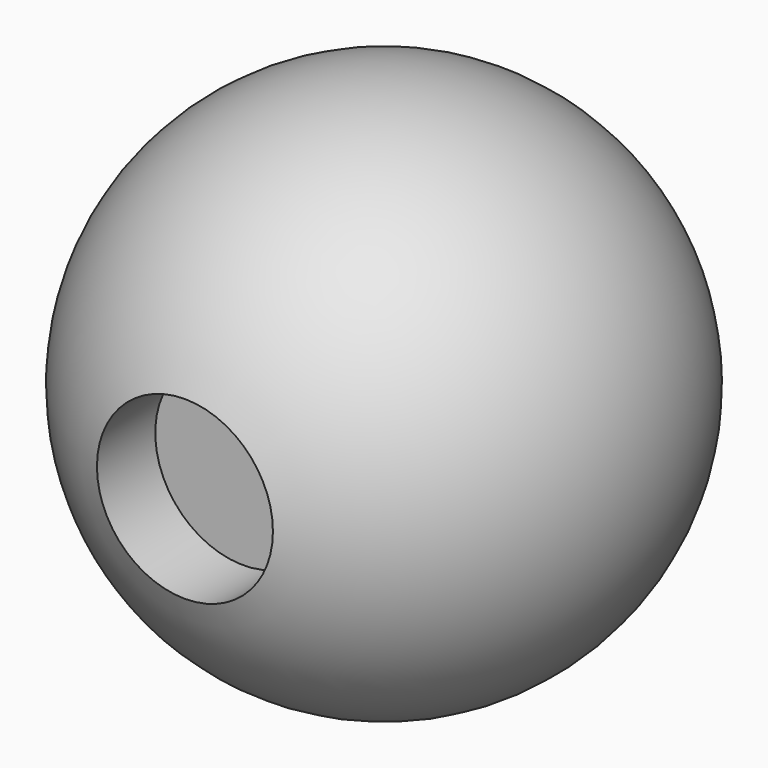
from build123d import *

# Parameters (mm, degrees)
F3_R     = 3.175
F4_DEPTH = 25.4


with BuildPart() as f1:
    # F0 (on Top) → F1 (revolve)
    with BuildSketch(Plane.XY):
        with BuildLine():
            Line((0, -9.525), (0, 9.525))
            ThreePointArc((0, 9.525), (-9.525, 0), (0, -9.525))
        make_face()
    revolve(axis=Axis((0, 0, 0), (0, -1, 0)))


with BuildPart() as f4:
    # F3 (on offset) → F4 (new body)
    with BuildSketch(Plane.XZ.offset(6.35)):
        Circle(F3_R)
    extrude(amount=F4_DEPTH)


with BuildPart() as f1_1:
    add(f1.part)

    # F5: cut F4
    add(f4.part, mode=Mode.SUBTRACT)


solid = f1_1.part
